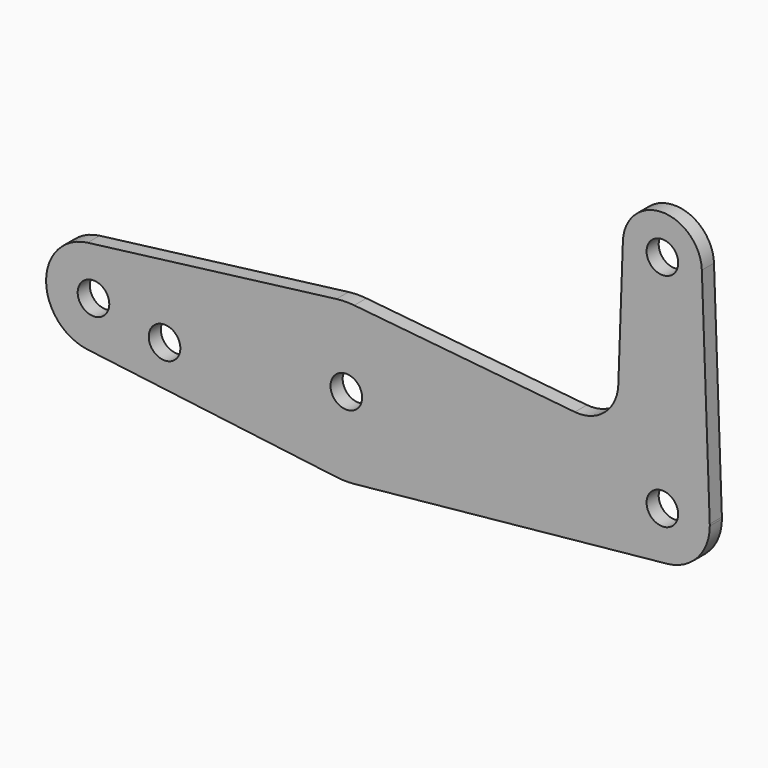
from build123d import *

# Parameters (mm, degrees)
F0_R     = 3.175
F1_DEPTH = 3.048


with BuildPart() as f1:
    # F0 (on Front) → F1 (new body)
    with BuildSketch(Plane.XZ):
        with BuildLine():
            ThreePointArc((-51.990625, -9.450293), (-44.499805, -7.14375), (-41.275, 0))
            ThreePointArc((-41.275, 0), (-44.499805, 7.14375), (-51.990625, 9.450293))
            ThreePointArc((-51.990625, 9.450293), (-60.325, 0), (-51.990625, -9.450293))
        make_face()
        with Locations((-50.8, 0)):
            Circle(F0_R, mode=Mode.SUBTRACT)
        with BuildLine():
            ThreePointArc((-51.990625, 9.450293), (-44.499805, 7.14375), (-41.275, 0))
            ThreePointArc((-41.275, 0), (-44.499805, -7.14375), (-51.990625, -9.450293))
            Line((-51.990625, -9.450293), (-1.984375, -15.750488))
            ThreePointArc((-1.984375, -15.750488), (-15.875, 0), (-1.984375, 15.750488))
            Line((-1.984375, 15.750488), (-51.990625, 9.450293))
        make_face()
        with Locations((-36.5252, -3.175)):
            Circle(F0_R, mode=Mode.SUBTRACT)
        with BuildLine():
            ThreePointArc((1.5875, 15.795426), (-0.199705, 15.873744), (-1.984375, 15.750488))
            ThreePointArc((-1.984375, 15.750488), (-15.875, 0), (-1.984375, -15.750488))
            ThreePointArc((-1.984375, -15.750488), (-0.199705, -15.873744), (1.5875, -15.795426))
            ThreePointArc((1.5875, -15.795426), (11.773215, -10.649274), (15.875, 0))
            ThreePointArc((15.875, 0), (11.773215, 10.649274), (1.5875, 15.795426))
        make_face()
        Circle(F0_R, mode=Mode.SUBTRACT)
        with BuildLine():
            Line((45.906618, 11.341187), (1.5875, 15.795426))
            ThreePointArc((1.5875, 15.795426), (11.773215, 10.649274), (15.875, 0))
            ThreePointArc((15.875, 0), (11.773215, -10.649274), (1.5875, -15.795426))
            Line((1.5875, -15.795426), (64.4525, -9.477255))
            ThreePointArc((64.4525, -9.477255), (56.32308, 6.262383), (73.018923, 0.340179))
            Line((73.018923, 0.340179), (71.432436, 44.733482))
            ThreePointArc((71.432436, 44.733482), (71.436234, 44.591764), (71.4375, 44.45))
            ThreePointArc((71.4375, 44.45), (63.358236, 36.513766), (55.567564, 44.733482))
            Line((55.567564, 44.733482), (54.646766, 18.9676))
            ThreePointArc((54.646766, 18.9676), (51.928641, 13.2612), (45.906618, 11.341187))
        make_face()
        with BuildLine():
            ThreePointArc((73.018923, 0.340179), (56.32308, 6.262383), (64.4525, -9.477255))
            ThreePointArc((64.4525, -9.477255), (70.563929, -6.389564), (73.025, 0))
            ThreePointArc((73.025, 0), (73.023481, 0.170116), (73.018923, 0.340179))
        make_face()
        with Locations((63.5, 0)):
            Circle(F0_R, mode=Mode.SUBTRACT)
        with BuildLine():
            ThreePointArc((71.432436, 44.733482), (63.5, 52.3875), (55.567564, 44.733482))
            ThreePointArc((55.567564, 44.733482), (63.358236, 36.513766), (71.4375, 44.45))
            ThreePointArc((71.4375, 44.45), (71.436234, 44.591764), (71.432436, 44.733482))
        make_face()
        with Locations((63.5, 44.45)):
            Circle(F0_R, mode=Mode.SUBTRACT)
    extrude(amount=F1_DEPTH)


solid = f1.part
